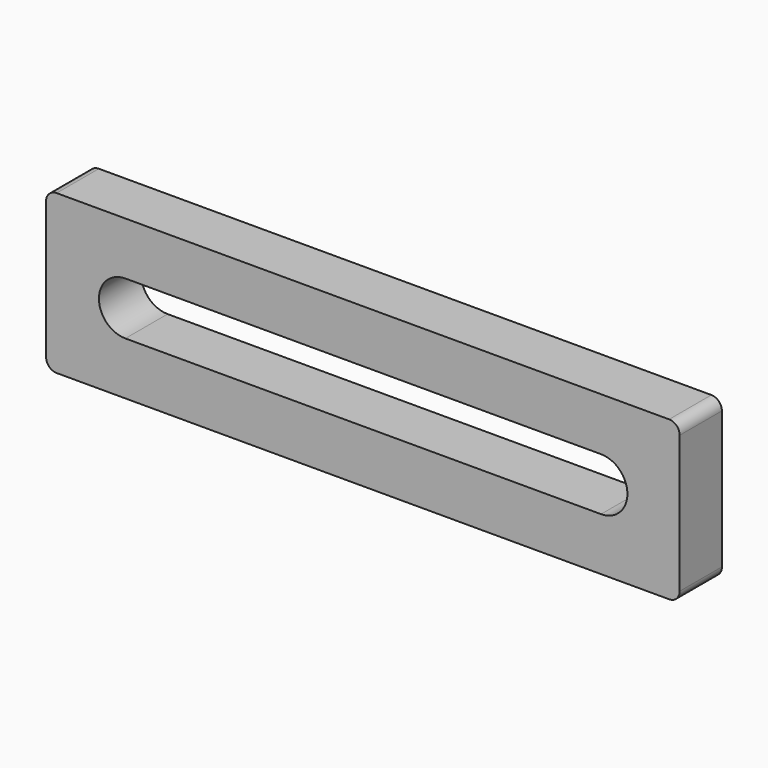
from build123d import *

# Parameters (mm, degrees)
F1_DEPTH = 10


with BuildPart() as f1:
    # F0 (on Front) → F1 (new body)
    with BuildSketch(Plane.XZ):
        with BuildLine():
            ThreePointArc((60, 13), (59.414214, 14.414214), (58, 15))
            Line((58, 15), (-58, 15))
            ThreePointArc((-58, 15), (-59.414214, 14.414214), (-60, 13))
            Line((-60, 13), (-60, -13))
            ThreePointArc((-60, -13), (-59.414214, -14.414214), (-58, -15))
            Line((-58, -15), (58, -15))
            ThreePointArc((58, -15), (59.414214, -14.414214), (60, -13))
            Line((60, -13), (60, 13))
        make_face()
        with BuildLine():
            Line((-44.987983, 5), (45.101259, 5))
            ThreePointArc((45.101259, 5), (48.636793, 3.535534), (50.101259, 0))
            ThreePointArc((50.101259, 0), (48.636793, -3.535534), (45.101259, -5))
            Line((45.101259, -5), (-44.987983, -5))
            ThreePointArc((-44.987983, -5), (-49.987983, 0), (-44.987983, 5))
        make_face(mode=Mode.SUBTRACT)
    extrude(amount=F1_DEPTH)


solid = f1.part
